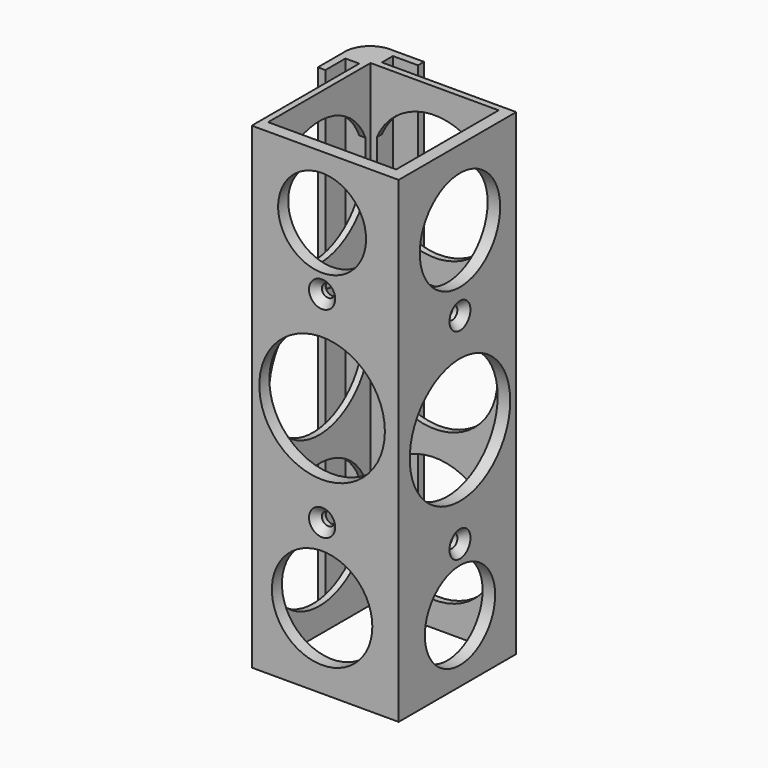
from build123d import *

# Parameters (mm, degrees)
F0_W           = 5
F0_H           = 5.5
F0_W_2         = 5.5
F0_H_2         = 5
F0_W_3         = 51
F0_H_3         = 51
F1_DEPTH       = 190
F2_R           = 10
F3_R           = 25
F3_R_2         = 17.5
F3_R_3         = 20
F4_DEPTH       = 5
F5_D           = 5.1054
F5_DEPTH       = 12
F5_CSINK_D     = 10.4394
F5_CSINK_ANGLE = 82
F5_TIP         = 1.5338169022
F7_D           = 5.1054
F7_DEPTH       = 12
F7_CSINK_D     = 10.4394
F7_CSINK_ANGLE = 82
F7_TIP         = 1.5338169022
F6_R           = 20
F6_R_2         = 25
F6_R_3         = 17.5
F8_DEPTH       = 5
F10_DEPTH      = 2.5
F12_DEPTH      = 2.5


with BuildPart() as f1:
    # F0 (on Top) → F1 (new body)
    with BuildSketch(Plane.XY):
        Polygon((-33.5, 28), (-28, 28), (-28, 33.5), (-28, 36.5), (-36.5, 36.5), (-36.5, 28), align=None)
        Polygon((-28, 36.5), (-28, 33.5), (-23, 33.5), (-13, 33.5), (-13, 36.5), align=None)
        with Locations((-25.5, 30.75)):
            Rectangle(F0_W, F0_H)
        with Locations((-30.75, 25.5)):
            Rectangle(F0_W_2, F0_H_2)
        Polygon((-33.5, 23), (-33.5, 28), (-36.5, 28), (-36.5, 13), (-33.5, 13), align=None)
        Polygon((-23, 28), (-28, 28), (-28, 23), (-28, -30.5), (30.5, -30.5), (30.5, 28), align=None)
        Rectangle(F0_W_3, F0_H_3, mode=Mode.SUBTRACT)
    extrude(amount=F1_DEPTH)

    # F2
    f2_edges = [f1.edges().sort_by_distance(p)[0] for p in [
        (-36.5, 36.5, 95),
    ]]
    fillet(f2_edges, radius=F2_R)

    # F3 (on face) → F4 (cut, through all)
    with BuildSketch(Plane.XZ.offset(30.5)):
        with Locations((0, 100)):
            Circle(F3_R)
        with Locations((0, 165)):
            Circle(F3_R_2)
        with Locations((0, 30)):
            Circle(F3_R_3)
    extrude(amount=-F4_DEPTH, mode=Mode.SUBTRACT)

    # F5
    with Locations(Plane.XZ.offset(30.5)):
        with Locations((0, 140), (0, 60)):
            CounterSinkHole(F5_D / 2, F5_CSINK_D / 2, depth=F5_DEPTH, counter_sink_angle=F5_CSINK_ANGLE)
            with Locations((0, 0, -(F5_DEPTH + F5_TIP / 2))):  # 118° drill point
                Cone(0, F5_D / 2, F5_TIP, mode=Mode.SUBTRACT)

    # F7
    with Locations(Plane.YZ.offset(30.5)):
        with Locations((0, 130), (0, 50)):
            CounterSinkHole(F7_D / 2, F7_CSINK_D / 2, depth=F7_DEPTH, counter_sink_angle=F7_CSINK_ANGLE)
            with Locations((0, 0, -(F7_DEPTH + F7_TIP / 2))):  # 118° drill point
                Cone(0, F7_D / 2, F7_TIP, mode=Mode.SUBTRACT)

    # F6 (on face) → F8 (cut, through all)
    with BuildSketch(Plane.YZ.offset(30.5)):
        with Locations((0, 160)):
            Circle(F6_R)
        with Locations((0, 90)):
            Circle(F6_R_2)
        with Locations((0, 25)):
            Circle(F6_R_3)
    extrude(amount=-F8_DEPTH, mode=Mode.SUBTRACT)

    # F9 (on face) → F10 (cut, through all)
    with BuildSketch(Plane(origin=(-28, 0, 0), x_dir=(0, -1, 0), z_dir=(-1, 0, 0))):
        with BuildLine():
            Line((-23, 164.7979589711), (-23, 145.2020410289))
            ThreePointArc((-23, 145.2020410289), (5, 130.5051025722), (25, 155))
            ThreePointArc((25, 155), (5, 179.4948974278), (-23, 164.7979589711))
        make_face()
        with BuildLine():
            ThreePointArc((-23, 85.2020410289), (5, 70.5051025722), (25, 95))
            ThreePointArc((25, 95), (5, 119.4948974278), (-23, 104.7979589711))
            Line((-23, 104.7979589711), (-23, 85.2020410289))
        make_face()
        with BuildLine():
            ThreePointArc((25, 35), (5, 59.4948974278), (-23, 44.7979589711))
            Line((-23, 44.7979589711), (-23, 25.2020410289))
            ThreePointArc((-23, 25.2020410289), (5, 10.5051025722), (25, 35))
        make_face()
    extrude(amount=-F10_DEPTH, mode=Mode.SUBTRACT)

    # F11 (on face) → F12 (cut, through all)
    with BuildSketch(Plane(origin=(0, 28, 0), x_dir=(-1, 0, 0), z_dir=(0, 1, 0))):
        with BuildLine():
            ThreePointArc((23, 164.7979589711), (-25, 155), (23, 145.2020410289))
            Line((23, 145.2020410289), (23, 164.7979589711))
        make_face()
        with BuildLine():
            Line((23, 85.2020410289), (23, 104.7979589711))
            ThreePointArc((23, 104.7979589711), (-25, 95), (23, 85.2020410289))
        make_face()
        with BuildLine():
            Line((23, 25.2020410289), (23, 44.7979589711))
            ThreePointArc((23, 44.7979589711), (-25, 35), (23, 25.2020410289))
        make_face()
    extrude(amount=-F12_DEPTH, mode=Mode.SUBTRACT)


solid = f1.part
